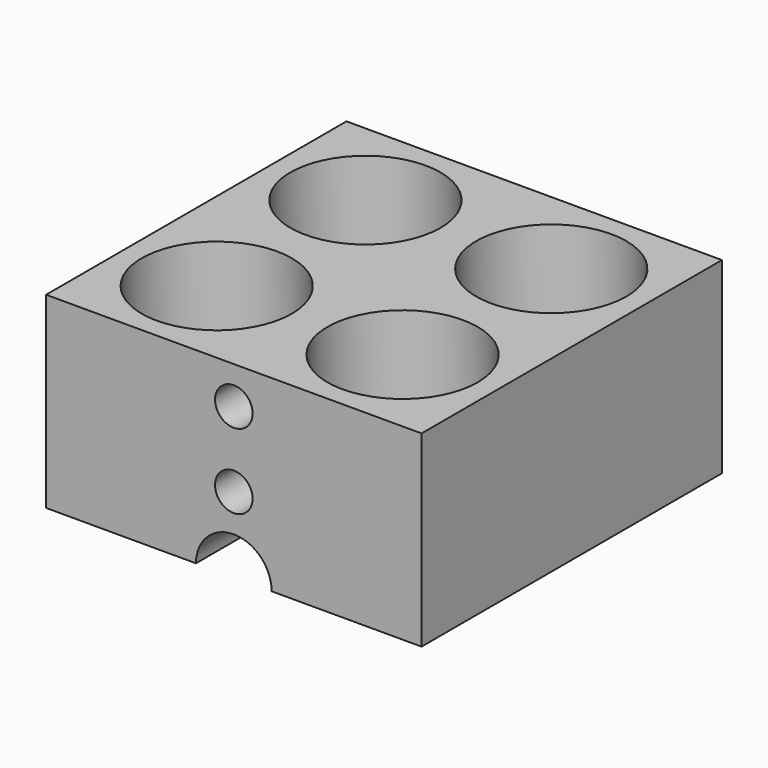
from build123d import *

# Parameters (mm, degrees)
F0_W           = 20
F0_H           = 20
F1_DEPTH       = 10
F2_R           = 2.0157754343
F3_DEPTH       = 25
F3_DEPTH_BACK  = 25
F5_D           = 5.08
F5_CBORE_D     = 8
F5_CBORE_DEPTH = 5.08
F7_D           = 2
F7_DEPTH       = 4
F7_TIP         = 0.600860619
F9_D           = 2
F9_DEPTH       = 4
F9_TIP         = 0.600860619


with BuildPart() as f1:
    # F0 (on Top) → F1 (new body)
    with BuildSketch(Plane.XY):
        Rectangle(F0_W, F0_H)
    extrude(amount=F1_DEPTH)

    # F2 (on Front) → F3 (cut, two sides)
    with BuildSketch(Plane.XZ) as f3_sk:
        Circle(F2_R)
    extrude(amount=F3_DEPTH, mode=Mode.SUBTRACT)
    extrude(f3_sk.sketch, amount=-F3_DEPTH_BACK, mode=Mode.SUBTRACT)

    # F5 (through all)
    with Locations(Plane.XY.offset(10)):
        with Locations((-4.9497474683, 4.9497474683), (-4.9497474683, -4.9497474683), (4.9497474683, -4.9497474683), (4.9497474683, 4.9497474683)):
            CounterBoreHole(F5_D / 2, F5_CBORE_D / 2, F5_CBORE_DEPTH)

    # F7
    with Locations(Plane.XZ.offset(10)):
        with Locations((0, 8.0078877172), (0, 4.0078877172)):
            Hole(F7_D / 2, depth=F7_DEPTH)
            with Locations((0, 0, -(F7_DEPTH + F7_TIP / 2))):  # 118° drill point
                Cone(0, F7_D / 2, F7_TIP, mode=Mode.SUBTRACT)

    # F9
    with Locations(Plane(origin=(0, 10, 0), x_dir=(-1, 0, 0), z_dir=(0, 1, 0))):
        with Locations((0, 4.0078877172), (0, 8.0078877172)):
            Hole(F9_D / 2, depth=F9_DEPTH)
            with Locations((0, 0, -(F9_DEPTH + F9_TIP / 2))):  # 118° drill point
                Cone(0, F9_D / 2, F9_TIP, mode=Mode.SUBTRACT)


solid = f1.part
